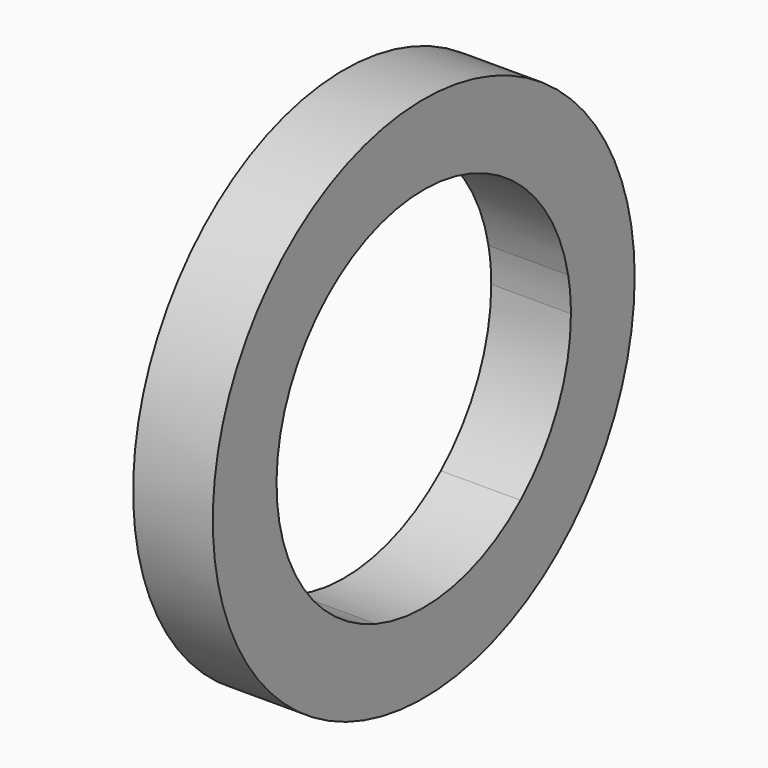
from build123d import *

# Parameters (mm, degrees)
F0_R     = 10.507348
F1_DEPTH = 3.175


with BuildPart() as f1:
    # F0 (on Right) → F1 (new body)
    with BuildSketch(Plane.YZ):
        Circle(F0_R)
        with BuildLine():
            ThreePointArc((7.194868, 1.413226), (7.297897, 0.709949), (7.332348, 0))
            ThreePointArc((7.332348, 0), (6.675139, -3.034115), (4.821324, -5.524325))
            ThreePointArc((4.821324, -5.524325), (1.413226, -7.194868), (-2.373544, -6.937551))
            ThreePointArc((-2.373544, -6.937551), (-5.524325, -4.821324), (-7.194868, -1.413226))
            ThreePointArc((-7.194868, -1.413226), (-6.937551, 2.373544), (-4.821324, 5.524325))
            ThreePointArc((-4.821324, 5.524325), (-1.413226, 7.194868), (2.373544, 6.937551))
            ThreePointArc((2.373544, 6.937551), (5.524325, 4.821324), (7.194868, 1.413226))
        make_face(mode=Mode.SUBTRACT)
    extrude(amount=F1_DEPTH)


solid = f1.part
